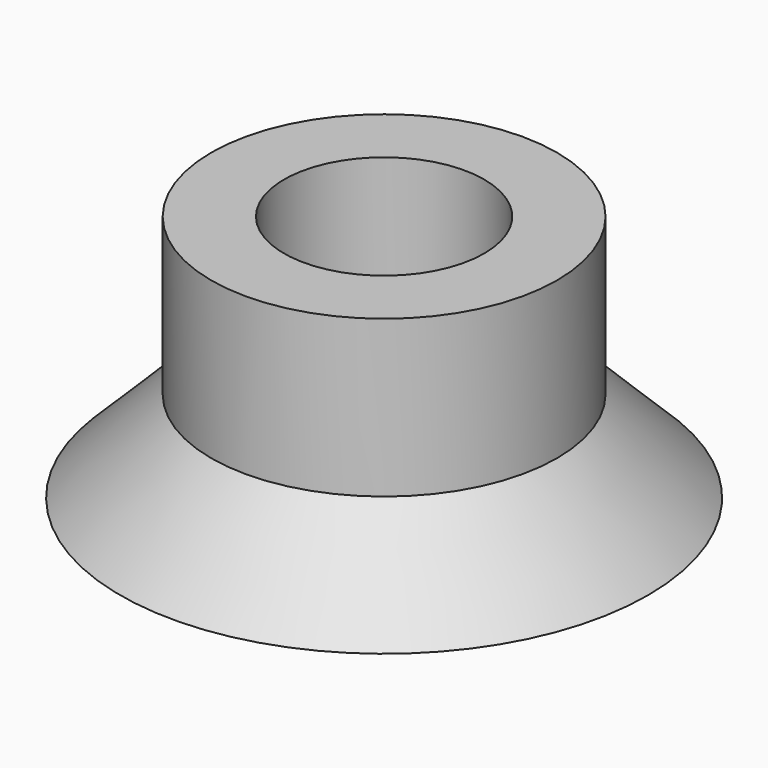
from build123d import *


with BuildPart() as part:
    # Sketch → Revolution (revolve)
    with BuildSketch(Plane.XZ):
        Polygon((2.75, 0), (2.75, 6.8), (4.75, 6.8), (4.75, 2.5), (7.25, 0), align=None)
    revolve(axis=Axis((0, 0, 0), (0, 0, 1)))


solid = part.part
